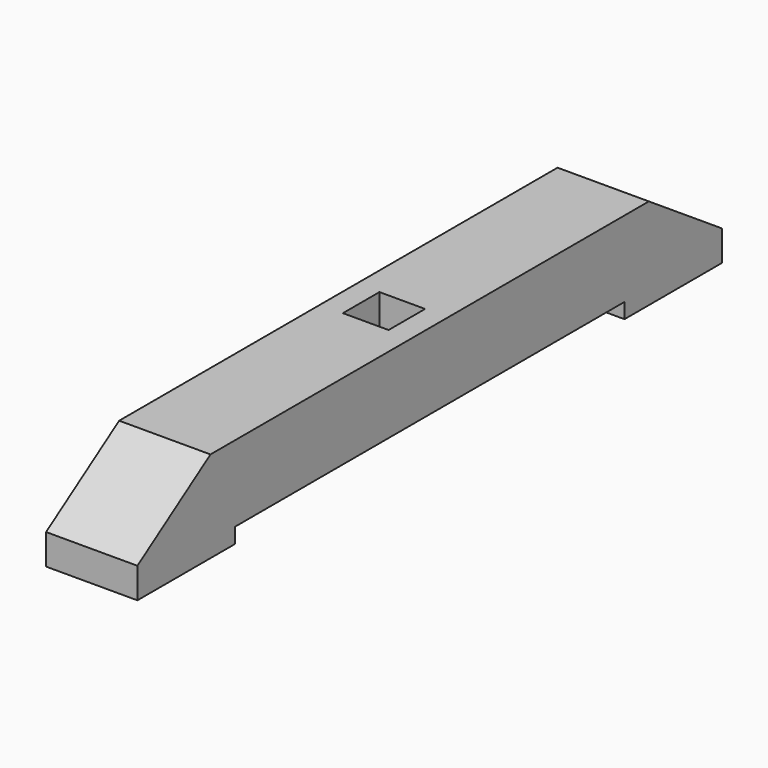
from build123d import *

# Parameters (mm, degrees)
F1_DEPTH = 38.1
F2_W     = 19.05
F2_H     = 9.525
F3_DEPTH = 19.05


with BuildPart() as f1:
    # F0 (on Right) → F1 (new body)
    with BuildSketch(Plane.YZ):
        Polygon((152.4, -6.35), (114.3, 19.05), (-114.3, 19.05), (-152.4, -6.35), (-152.4, -19.05), (-101.6, -19.05), (-101.6, -12.7), (101.6, -12.7), (101.6, -19.05), (152.4, -19.05), align=None)
    extrude(amount=F1_DEPTH)

    # F2 (on face) → F3 (cut)
    with BuildSketch(Plane.XY.offset(19.05)):
        with Locations((19.05, 4.7625)):
            Rectangle(F2_W, F2_H)
        with Locations((19.05, -4.7625)):
            Rectangle(F2_W, F2_H)
    extrude(amount=-F3_DEPTH, mode=Mode.SUBTRACT)


with BuildPart() as f4_1:
    # F4: copy of F1
    add(f1.part)


solid = f1.part
